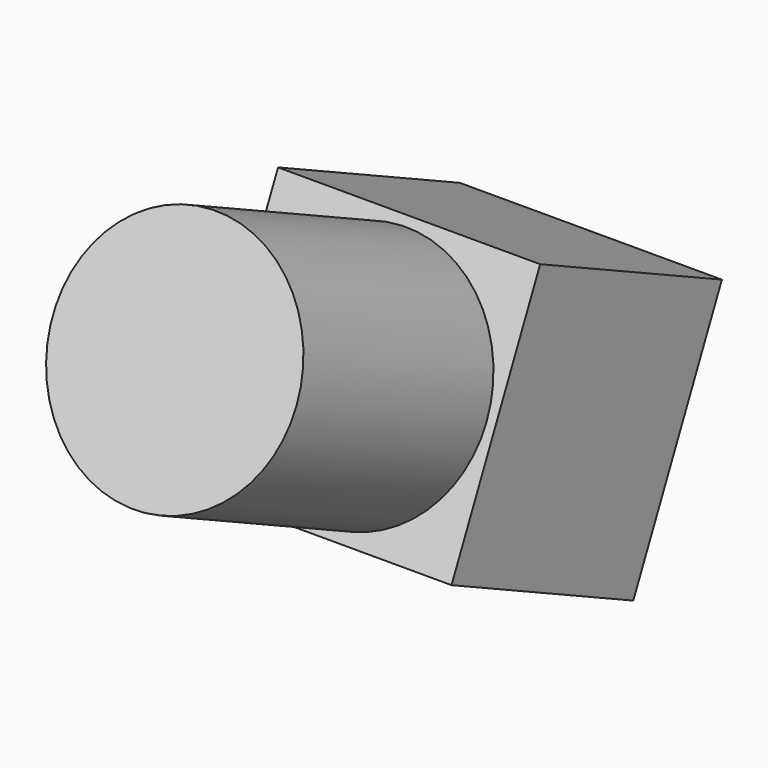
from build123d import *

# Parameters (mm, degrees)
F1_DEPTH = 5.75
F2_R     = 5.35
F3_DEPTH = 11.5


with BuildPart() as f1:
    # F0 (on Right) → F1 (new body, symmetric)
    with BuildSketch(Plane.YZ):
        Polygon((-9.9693856574, 4.6488008791), (0, 0), (4.86011001, 10.4225395509), (-5.1092756474, 15.0713404301), align=None)
    extrude(amount=F1_DEPTH, both=True)

    # F2 (on face) → F3 (join)
    with BuildSketch(Plane(origin=(0, -9.9693856574, 4.6488008791), x_dir=(1, 0, 0), z_dir=(0, -0.906307787, 0.4226182617))):
        with Locations((0, 5.75)):
            Circle(F2_R)
    extrude(amount=F3_DEPTH)


solid = f1.part
